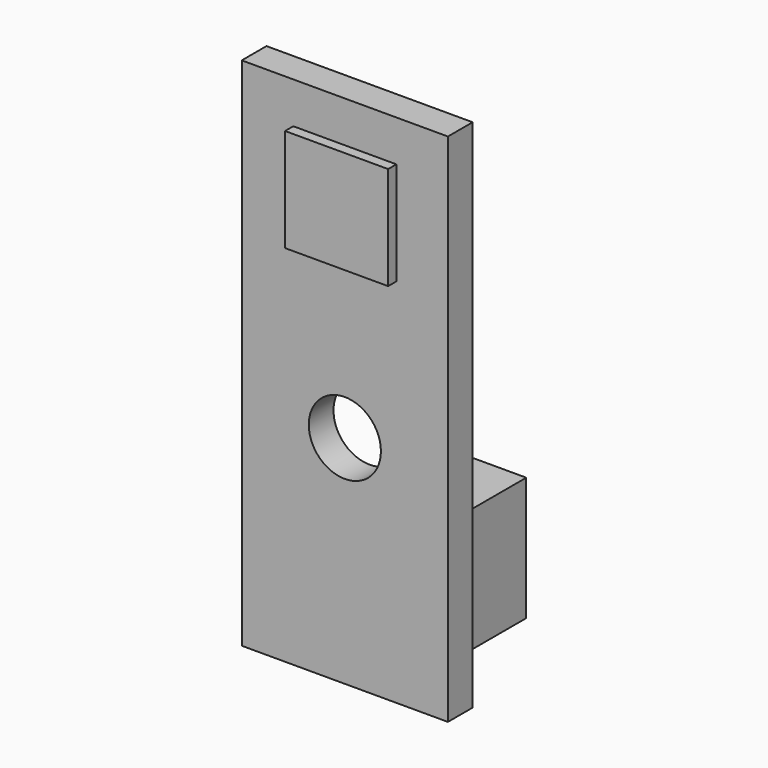
from build123d import *

# Parameters (mm, degrees)
SKETCH_W     = 10
SKETCH_H     = 25
SKETCH_R     = 1.75
PAD_DEPTH    = 1.5
SKETCH001_W  = 5
SKETCH001_H  = 5
PAD001_DEPTH = 0.5
SKETCH002_W  = 4
SKETCH002_H  = 6
PAD002_DEPTH = 7


with BuildPart() as part:
    # Sketch → Pad (new body)
    with BuildSketch(Plane.XZ):
        Rectangle(SKETCH_W, SKETCH_H)
        with Locations((0, -2)):
            Circle(SKETCH_R, mode=Mode.SUBTRACT)
    extrude(amount=PAD_DEPTH)

    # Sketch001 (on Face7 of Pad) → Pad001 (join)
    with BuildSketch(Plane.XZ.offset(1.5)):
        with Locations((0, 8)):
            Rectangle(SKETCH001_W, SKETCH001_H)
    extrude(amount=PAD001_DEPTH)

    # Sketch002 (on Face4 of Pad001) → Pad002 (join)
    with BuildSketch(Plane(origin=(0, 0, 0), x_dir=(1, 0, 0), z_dir=(0, 1, 0))):
        with Locations((0, 9.5)):
            Rectangle(SKETCH002_W, SKETCH002_H)
    extrude(amount=PAD002_DEPTH)


solid = part.part
